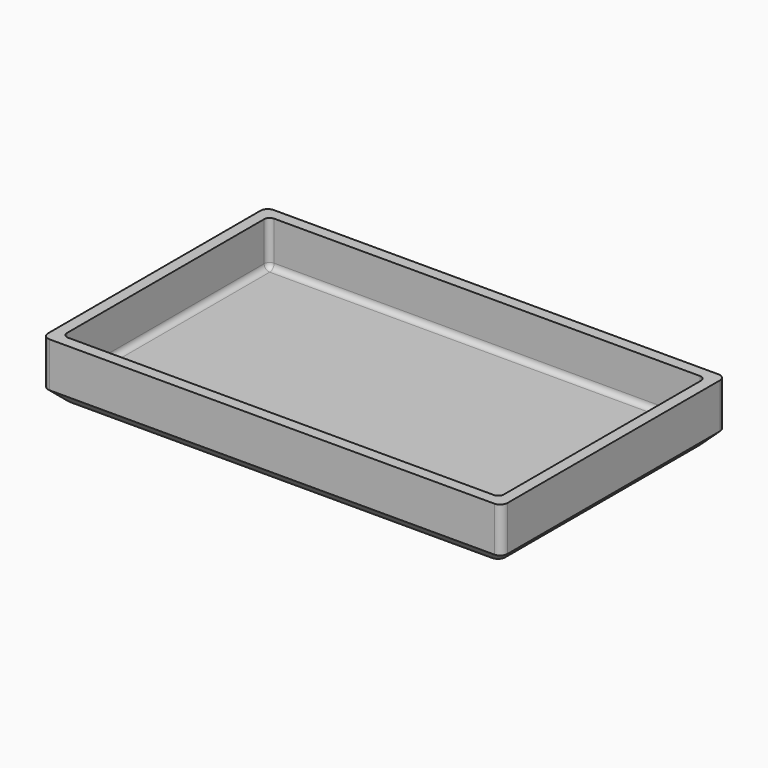
from build123d import *

# Parameters (mm, degrees)
F2_W     = 205
F2_H     = 125
F3_DEPTH = 25
F4_T     = -5
F5_SIZE  = 5
F6_R     = 5
F7_R     = 2.5
F8_R     = 3.3


with BuildPart() as f3:
    # F2 (on Top) → F3 (new body)
    with BuildSketch(Plane.XY):
        Rectangle(F2_W, F2_H)
    extrude(amount=F3_DEPTH)

    # F4
    f4_openings = [f3.faces().sort_by_distance(p)[0] for p in [
        (0, 0, 25),
    ]]
    offset(amount=F4_T, openings=f4_openings)

    # F5
    f5_edges = [f3.edges().sort_by_distance(p)[0] for p in [
        (0, 62.5, 0),
        (-102.5, 0, 0),
        (0, -62.5, 0),
        (102.5, 0, 0),
    ]]
    chamfer(f5_edges, length=F5_SIZE)

    # F6
    f6_edges = [f3.edges().sort_by_distance(p)[0] for p in [
        (100, -60, 2.5),
        (-100, 60, 2.5),
        (-100, -60, 2.5),
        (100, 60, 2.5),
    ]]
    fillet(f6_edges, radius=F6_R)

    # F7
    f7_edges = [f3.edges().sort_by_distance(p)[0] for p in [
        (-97.5, -57.5, 15),
        (-97.5, 57.5, 15),
        (97.5, 57.5, 15),
        (97.5, -57.5, 15),
        (0, -57.5, 5),
        (97.5, 0, 5),
        (0, 57.5, 5),
        (-97.5, 0, 5),
    ]]
    fillet(f7_edges, radius=F7_R)

    # F8
    f8_edges = [f3.edges().sort_by_distance(p)[0] for p in [
        (102.5, 62.5, 15.473672),
        (102.5, -62.5, 15.473672),
        (-102.5, -62.5, 15.473672),
        (-102.5, 62.5, 15.473672),
    ]]
    fillet(f8_edges, radius=F8_R)


solid = f3.part
